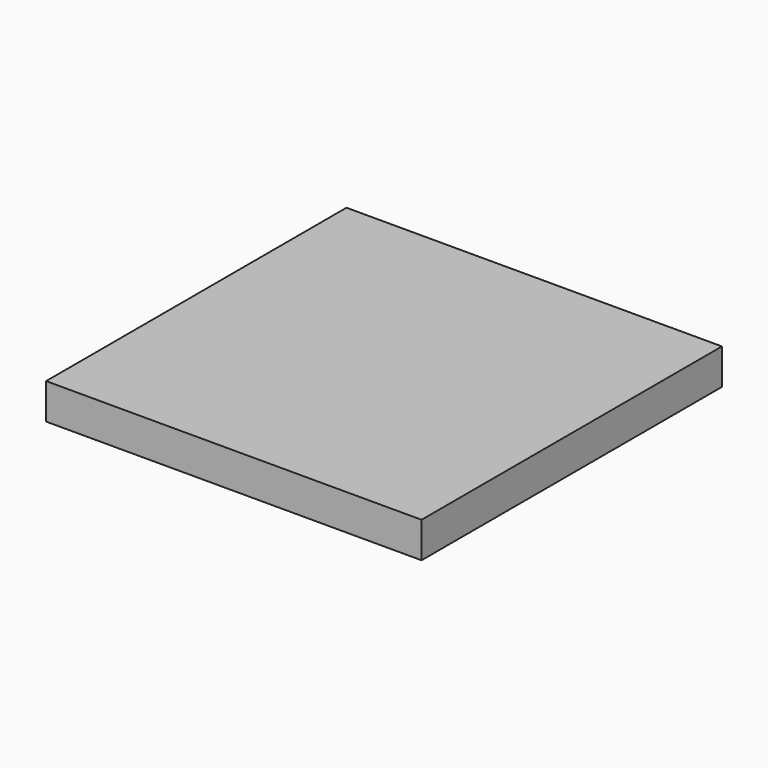
from build123d import *

# Parameters (mm, degrees)
F0_W     = 200
F0_H     = 200
F0_R     = 35.2574205313
F0_R_2   = 24.6877765363
F0_R_3   = 35.0119244768
F1_DEPTH = 19
F2_R     = 25.4271073146
F2_R_2   = 38.8119469976
F3_DEPTH = 10


with BuildPart() as f1:
    # F0 (on Top) → F1 (new body)
    with BuildSketch(Plane.XY):
        with Locations((100, 100)):
            Rectangle(F0_W, F0_H)
        with Locations((45.0678654015, 44.85360533)):
            Circle(F0_R, mode=Mode.SUBTRACT)
        with Locations((37.5408865511, 158.2010239363)):
            Circle(F0_R_2, mode=Mode.SUBTRACT)
        with Locations((120.7804009318, 101.5273183584)):
            Circle(F0_R_3, mode=Mode.SUBTRACT)
        with Locations((45.0678654015, 44.85360533)):
            Circle(F0_R)
        with Locations((120.7804009318, 101.5273183584)):
            Circle(F0_R_3)
        with Locations((37.5408865511, 158.2010239363)):
            Circle(F0_R_2)
    extrude(amount=F1_DEPTH)

    # F2 (on face) → F3 (cut)
    with BuildSketch(Plane(origin=(0, 0, 0), x_dir=(1, 0, 0), z_dir=(0, 0, -1))):
        with Locations((72.9690864682, -62.1213838458)):
            Circle(F2_R)
        with Locations((131.8566054106, -132.5207650661)):
            Circle(F2_R_2)
    extrude(amount=-F3_DEPTH, mode=Mode.SUBTRACT)


solid = f1.part
